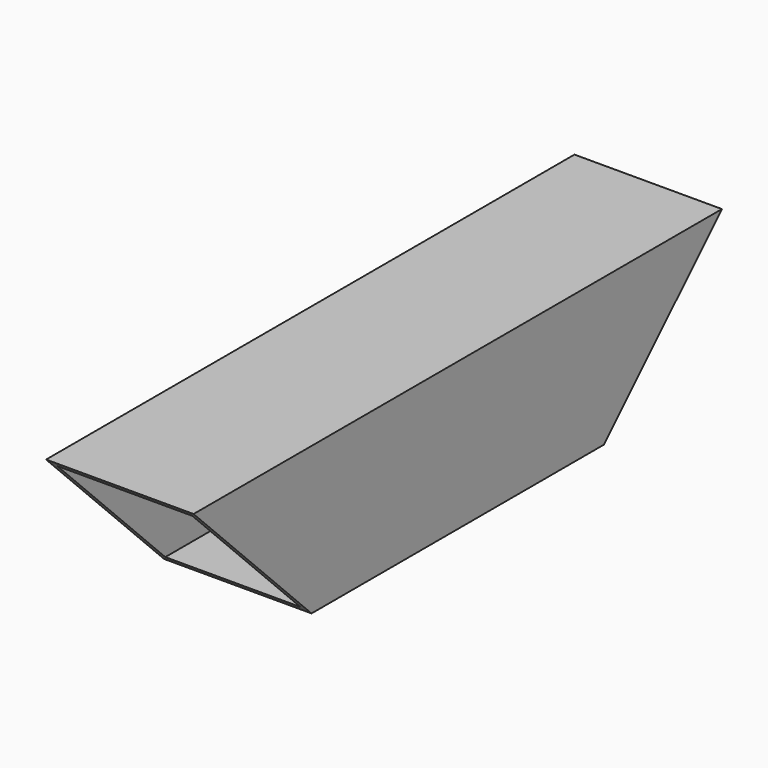
from build123d import *

# Parameters (mm, degrees)
F0_W          = 60
F0_H          = 60
F0_W_2        = 55
F0_H_2        = 55
F1_DEPTH      = 268.7
F3_DEPTH      = 75
F3_DEPTH_BACK = 75


with BuildPart() as f1:
    # F0 (on Front) → F1 (new body)
    with BuildSketch(Plane.XZ):
        Rectangle(F0_W, F0_H)
        Rectangle(F0_W_2, F0_H_2, mode=Mode.SUBTRACT)
    extrude(amount=-F1_DEPTH)

    # F2 (on face) → F3 (cut, two sides)
    with BuildSketch(Plane(origin=(-30, 0, 0), x_dir=(0, -1, 0), z_dir=(-1, 0, 0))) as f3_sk:
        Polygon((0, -30), (0, 30), (-60, -30), align=None)
        Polygon((-208.7, -30), (-268.7, 30), (-268.7, -30), align=None)
    extrude(amount=-F3_DEPTH, mode=Mode.SUBTRACT)
    extrude(f3_sk.sketch, amount=-F3_DEPTH_BACK, mode=Mode.SUBTRACT)


solid = f1.part
